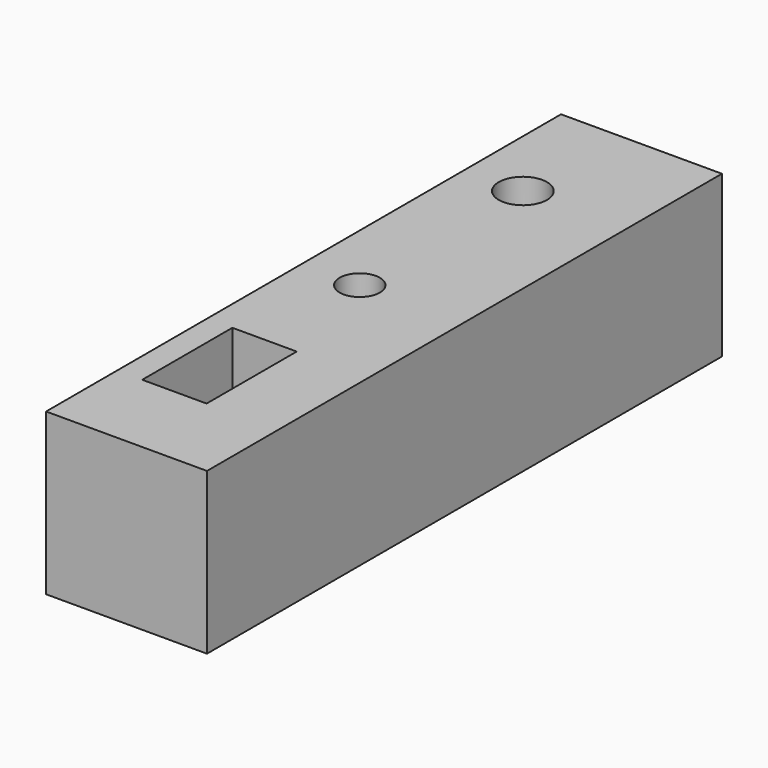
from build123d import *

# Parameters (mm, degrees)
F0_W     = 12.7
F0_H     = 50.8
F0_W_2   = 5.08
F0_H_2   = 8.89
F0_R     = 1.5875
F0_R_2   = 1.905
F1_DEPTH = 12.7


with BuildPart() as f1:
    # F0 (on Top) → F1 (new body)
    with BuildSketch(Plane.XY):
        with Locations((6.35, 25.4)):
            Rectangle(F0_W, F0_H)
        with Locations((4.52322, 11.45213)):
            Rectangle(F0_W_2, F0_H_2, mode=Mode.SUBTRACT)
        with Locations((4.561055, 25.244705)):
            Circle(F0_R, mode=Mode.SUBTRACT)
        with Locations((4.561055, 41.335247)):
            Circle(F0_R_2, mode=Mode.SUBTRACT)
    extrude(amount=F1_DEPTH)


solid = f1.part
